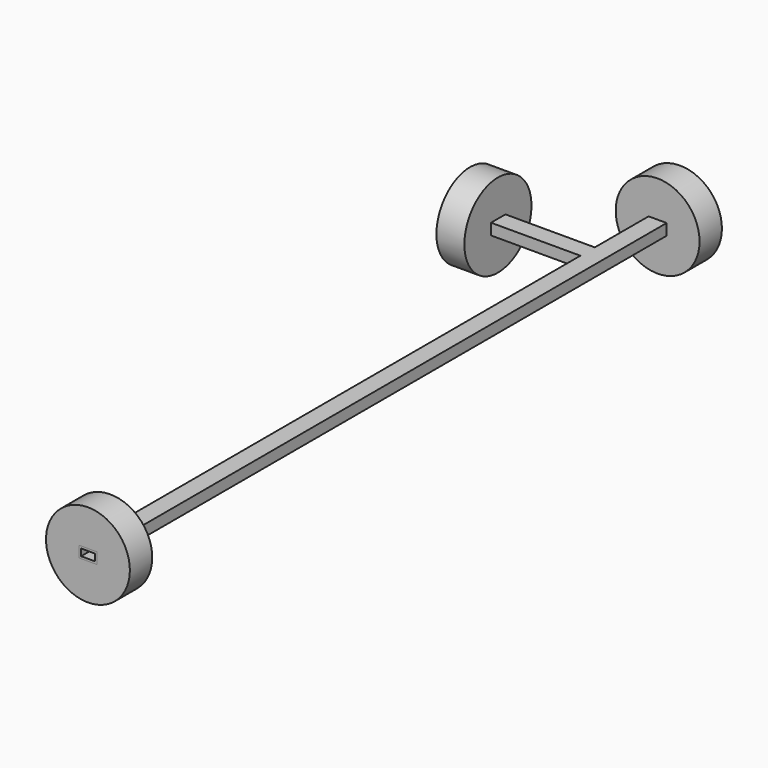
from build123d import *

# Parameters (mm, degrees)
F0_W      = 4.1
F0_H      = 2.55
F0_W_2    = 3.1
F0_H_2    = 1.55
F2_DEPTH  = 168.1
F0_R      = 9.525
F3_DEPTH  = 6.35
F4_R      = 9.525
F4_W      = 4.1
F4_H      = 2.55
F5_DEPTH  = 6.35
F7_W      = 4.1
F7_H      = 2.55
F7_W_2    = 3.1
F7_H_2    = 1.55
F8_DEPTH  = 26.65
F9_R      = 9.525
F9_W      = 4.1
F9_H      = 2.55
F10_DEPTH = 6.35


with BuildPart() as f2:
    # F0 (on Front) → F2 (new body)
    with BuildSketch(Plane.XZ):
        Rectangle(F0_W, F0_H)
        Rectangle(F0_W_2, F0_H_2, mode=Mode.SUBTRACT)
    extrude(amount=F2_DEPTH)

    # F0 (on Front) → F3 (join)
    with BuildSketch(Plane.XZ):
        Circle(F0_R)
        Rectangle(F0_W, F0_H, mode=Mode.SUBTRACT)
    extrude(amount=F3_DEPTH)

    # F7 (on offset) → F8 (join)
    with BuildSketch(Plane.YZ.offset(-2.05)):
        with Locations((-23.6732278364, 0)):
            Rectangle(F7_W, F7_H)
        with Locations((-23.6732278364, 0)):
            Rectangle(F7_W_2, F7_H_2, mode=Mode.SUBTRACT)
    extrude(amount=-F8_DEPTH)


with BuildPart() as f5:
    # F4 (on face) → F5 (new body)
    with BuildSketch(Plane.XZ.offset(168.1)):
        Circle(F4_R)
        Rectangle(F4_W, F4_H, mode=Mode.SUBTRACT)
    extrude(amount=-F5_DEPTH)


with BuildPart() as f10:
    # F9 (on face) → F10 (new body)
    with BuildSketch(Plane(origin=(-28.7, 0, 0), x_dir=(0, -1, 0), z_dir=(-1, 0, 0))):
        with Locations((23.7548141568, 0)):
            Circle(F9_R)
        with Locations((23.6732278364, 0)):
            Rectangle(F9_W, F9_H, mode=Mode.SUBTRACT)
    extrude(amount=-F10_DEPTH)


solid = Compound([f2.part, f5.part, f10.part])
